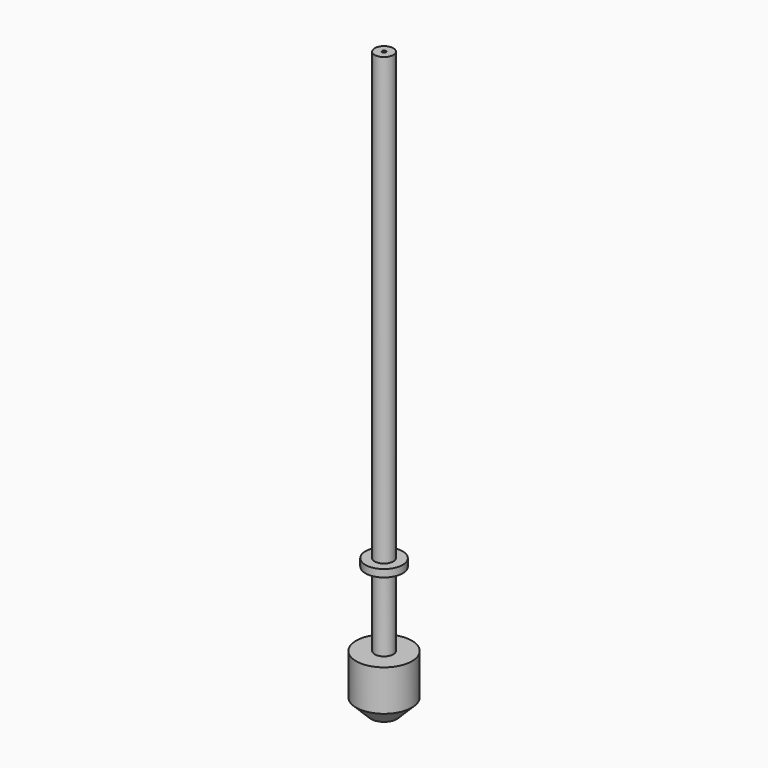
from build123d import *

# Parameters (mm, degrees)
F0_R      = 3.175
F1_DEPTH  = 152.4
F2_R      = 6.35
F3_DEPTH  = 2.54
F4_R      = 3.175
F5_DEPTH  = 25.4
F6_R      = 9.525
F7_DEPTH  = 19.05
F8_SIZE   = 5.08
F10_D     = 1.27
F10_DEPTH = 25.4
F10_TIP   = 0.3815464931


with BuildPart() as f1:
    # F0 (on Top) → F1 (new body)
    with BuildSketch(Plane.XY):
        Circle(F0_R)
    extrude(amount=F1_DEPTH)

    # F2 (on face) → F3 (join)
    with BuildSketch(Plane(origin=(0, 0, 0), x_dir=(1, 0, 0), z_dir=(0, 0, -1))):
        Circle(F2_R)
    extrude(amount=F3_DEPTH)

    # F4 (on face) → F5 (join)
    with BuildSketch(Plane(origin=(0, 0, -2.54), x_dir=(1, 0, 0), z_dir=(0, 0, -1))):
        Circle(F4_R)
    extrude(amount=F5_DEPTH)

    # F6 (on face) → F7 (join)
    with BuildSketch(Plane(origin=(0, 0, -27.94), x_dir=(1, 0, 0), z_dir=(0, 0, -1))):
        Circle(F6_R)
    extrude(amount=F7_DEPTH)

    # F8
    f8_edges = [f1.edges().sort_by_distance(p)[0] for p in [
        (-9.525, 0, -46.99),
    ]]
    chamfer(f8_edges, length=F8_SIZE)

    # F10
    with Locations(Plane.XY.offset(152.4)):
        with Locations((0, 0)):
            Hole(F10_D / 2, depth=F10_DEPTH)
            with Locations((0, 0, -(F10_DEPTH + F10_TIP / 2))):  # 118° drill point
                Cone(0, F10_D / 2, F10_TIP, mode=Mode.SUBTRACT)


solid = f1.part
